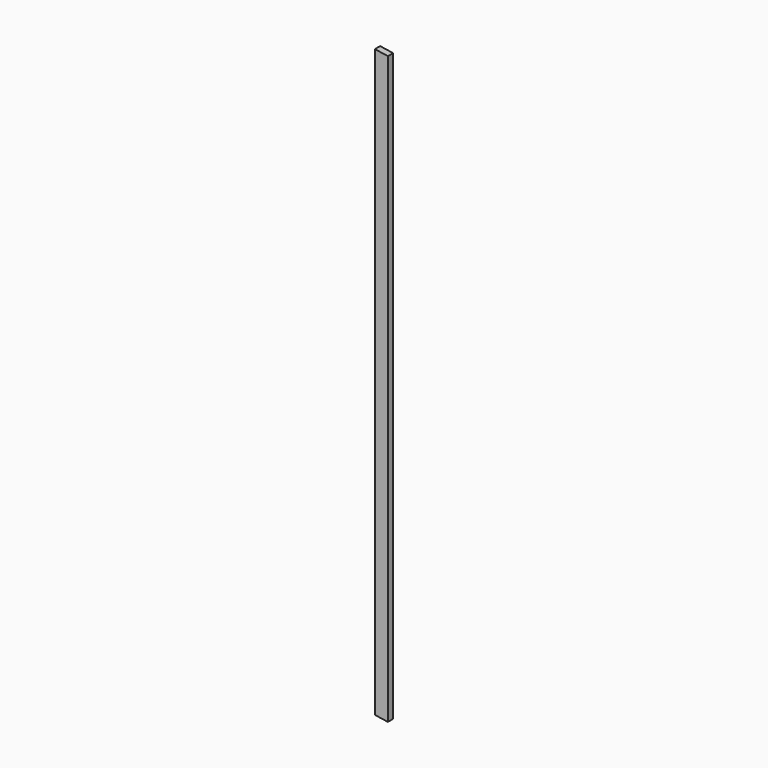
from build123d import *

# Parameters (mm, degrees)
F0_W     = 101.6
F0_H     = 4572
F1_DEPTH = 50.8
F3_DEPTH = 123.698


with BuildPart() as f1:
    # F0 (on Front) → F1 (new body)
    with BuildSketch(Plane.XZ):
        with Locations((6.710641, 2164.601112)):
            Rectangle(F0_W, F0_H)
    extrude(amount=F1_DEPTH)

    # F2 (on face) → F3 (cut)
    with BuildSketch(Plane.XZ.offset(50.8)):
        Polygon((57.510641, 4450.601112), (-44.089359, 4450.601112), (57.510641, 4435.59813), align=None)
        Polygon((-44.089359, -121.398888), (57.510641, -121.398888), (-44.089359, -106.395905), align=None)
    extrude(amount=-F3_DEPTH, mode=Mode.SUBTRACT)


solid = f1.part
